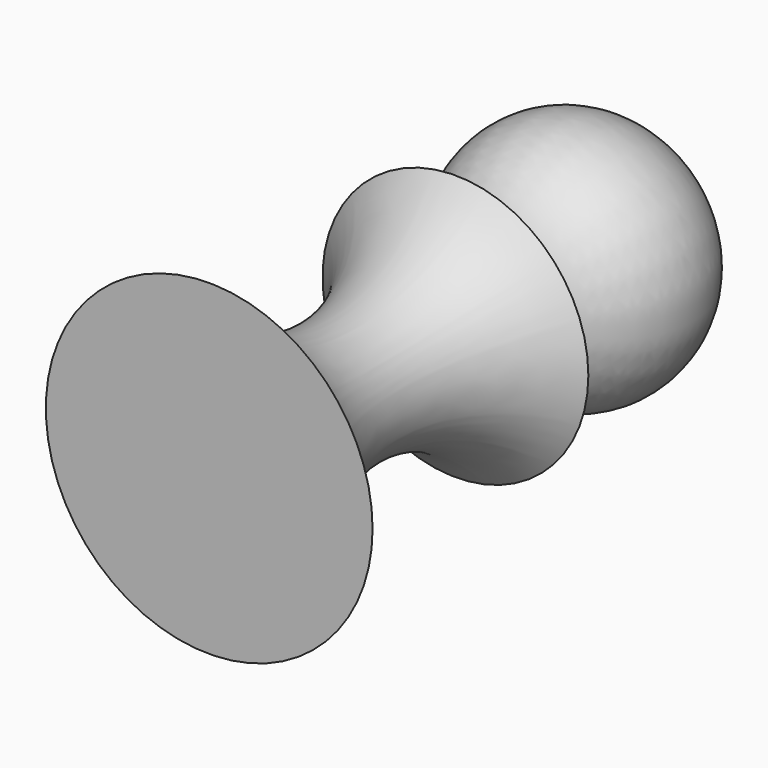
from build123d import *


with BuildPart() as f1:
    # F0 (on Top) → F1 (revolve)
    with BuildSketch(Plane.XY):
        with BuildLine():
            ThreePointArc((7.246657, 14.398119), (3.633949, 13.87955), (0, 14.218645))
            Line((0, 14.218645), (0, -40.005002))
            Line((0, -40.005002), (25.063373, -40.005002))
            ThreePointArc((25.063373, -40.005002), (9.690614, -17.684752), (20.391325, 7.21525))
            ThreePointArc((20.391325, 7.21525), (11.548185, 6.651104), (7.246657, 14.398119))
        make_face()
        with BuildLine():
            ThreePointArc((7.246657, 14.398119), (18.347044, 33.025706), (0, 44.583887))
            Line((0, 44.583887), (0, 14.218645))
            ThreePointArc((0, 14.218645), (3.633949, 13.87955), (7.246657, 14.398119))
        make_face()
    revolve(axis=Axis((0, 2.289442, 0), (0, -1, 0)))


solid = f1.part
